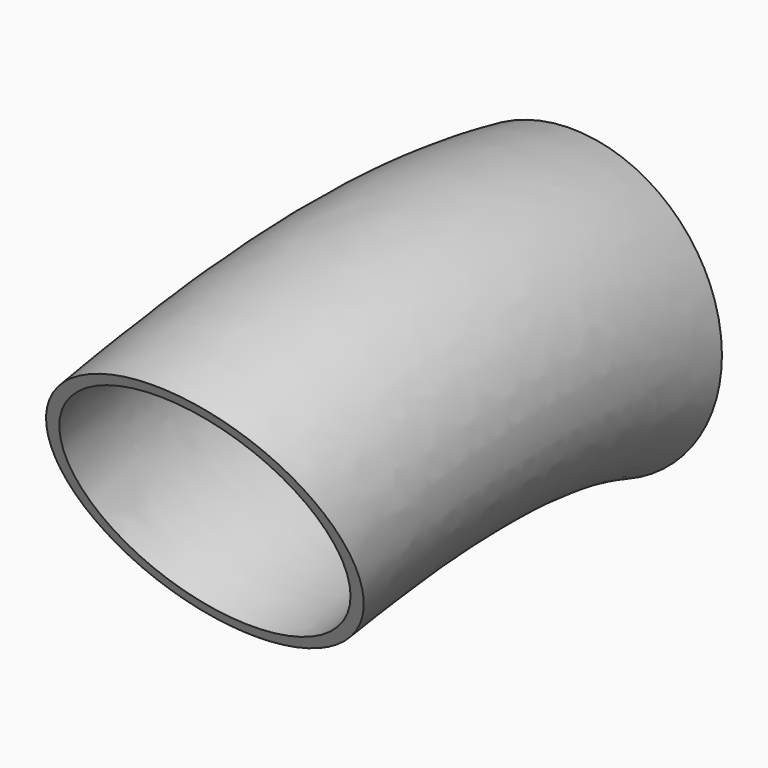
from build123d import *

# Parameters (mm, degrees)
F0_R   = 38.1
F0_R_2 = 34.925


with BuildPart() as f2:
    # F2: sweep along a path in F1
    with BuildLine(Plane.YZ) as f2_path:
        add(Plane.YZ * Edge.make_bspline(
            [(0, 0), (-37.828464061, 10.3436838835), (-76.7187401652, 6.7121884786), (-115.9536316991, 0)],
            knots=[0, 0, 0, 0, 115.9536316991, 115.9536316991, 115.9536316991, 115.9536316991], degree=3))
    # F0 (on Front) → F2 (sweep)
    with BuildSketch(Plane.XZ):
        Circle(F0_R)
        Circle(F0_R_2, mode=Mode.SUBTRACT)
    sweep(path=f2_path.line)


solid = f2.part
